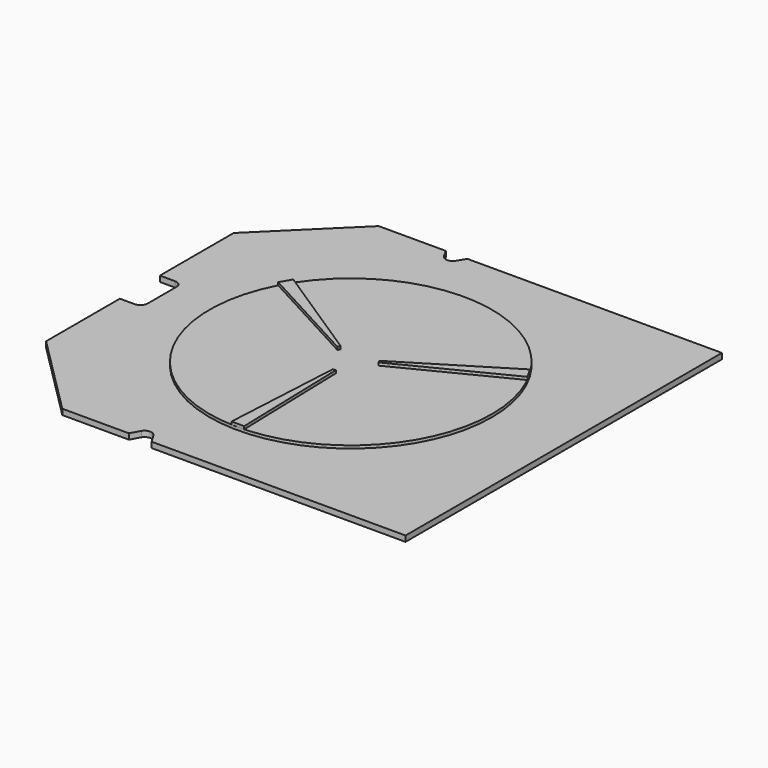
from build123d import *

# Parameters (mm, degrees)
F1_DEPTH = 2
F3_DEPTH = 2.001
F4_R     = 50
F5_DEPTH = 1
F7_DEPTH = 1


with BuildPart() as f1:
    # F0 (on Top) → F1 (new body)
    with BuildSketch(Plane.XY):
        Polygon((75.556129, -70.198737), (75.556129, 69.801263), (-45.943871, 69.801263), (-74.675181, 41.532574), (-74.675181, -41.467426), (-45.943871, -70.198737), align=None)
    extrude(amount=F1_DEPTH)

    # F2 (on face) → F3 (cut, through all)
    with BuildSketch(Plane.XY.offset(2)):
        with BuildLine():
            Line((-69.275181, 8.882574), (-74.675181, 8.882574))
            Line((-74.675181, 8.882574), (-74.675181, -8.815888))
            Line((-74.675181, -8.815888), (-69.275181, -8.815888))
            ThreePointArc((-69.275181, -8.815888), (-67.564365, -8.053916), (-66.862866, -6.317426))
            Line((-66.862866, -6.317426), (-66.862866, 7.038877))
            ThreePointArc((-66.862866, 7.038877), (-67.757084, 8.368871), (-69.275181, 8.882574))
        make_face()
        with BuildLine():
            Line((-14.555379, 69.801263), (-22.164578, 69.801263))
            Line((-22.164578, 69.801263), (-20.529358, 66.837383))
            ThreePointArc((-20.529358, 66.837383), (-18.396211, 65.716511), (-16.307343, 66.917885))
            Line((-16.307343, 66.917885), (-14.555379, 69.801263))
        make_face()
        with BuildLine():
            Line((-20.529358, -66.837383), (-22.383871, -70.198737))
            Line((-22.383871, -70.198737), (-14.313871, -70.198737))
            Line((-14.313871, -70.198737), (-16.307343, -66.917885))
            ThreePointArc((-16.307343, -66.917885), (-18.396211, -65.716511), (-20.529358, -66.837383))
        make_face()
    extrude(amount=-F3_DEPTH, mode=Mode.SUBTRACT)


with BuildPart() as f5:
    # F4 (on face) → F5 (new body)
    with BuildSketch(Plane.XY.offset(2)):
        Circle(F4_R)
    extrude(amount=F5_DEPTH)


with BuildPart() as f7:
    # F6 (on face) → F7 (new body)
    with BuildSketch(Plane.XY.offset(3)):
        Polygon((-42.019164, 27.099628), (-44.272563, 23.236612), (-7.333016, 3.249871), (-6.857141, 4.129384), align=None)
        Polygon((0.076095, -8.013664), (-2.235708, -49.949991), (2.235708, -49.949991), (1.07496, -7.966034), align=None)
        Polygon((44.893218, 22.013609), (42.746617, 25.936976), (6.967818, 3.93976), (7.419391, 3.047526), align=None)
    extrude(amount=F7_DEPTH)


solid = Compound([f1.part, f5.part, f7.part])
